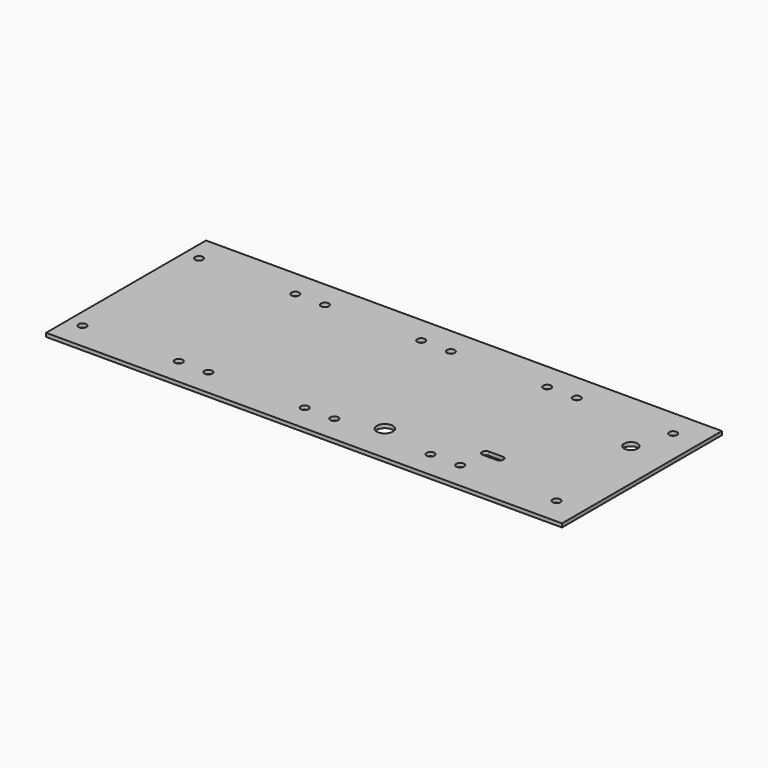
from build123d import *

# Parameters (mm, degrees)
SKETCH_W   = 209.14
SKETCH_H   = 81.05
SKETCH_R   = 1.6
SKETCH_R_2 = 2.75
SKETCH_R_3 = 3.25
PAD_DEPTH  = 1.5


with BuildPart() as part:
    # Sketch → Pad (new body)
    with BuildSketch(Plane.XY):
        with Locations((104.57, 40.525)):
            Rectangle(SKETCH_W, SKETCH_H)
        with Locations((5.94, 70.05)):
            Circle(SKETCH_R, mode=Mode.SUBTRACT)
        with Locations((44.99, 70.05)):
            Circle(SKETCH_R, mode=Mode.SUBTRACT)
        with Locations((56.99, 70.05)):
            Circle(SKETCH_R, mode=Mode.SUBTRACT)
        with Locations((96.04, 70.05)):
            Circle(SKETCH_R, mode=Mode.SUBTRACT)
        with Locations((108.04, 70.05)):
            Circle(SKETCH_R, mode=Mode.SUBTRACT)
        with Locations((147.09, 70.05)):
            Circle(SKETCH_R, mode=Mode.SUBTRACT)
        with Locations((159.09, 70.05)):
            Circle(SKETCH_R, mode=Mode.SUBTRACT)
        with Locations((198.14, 70.05)):
            Circle(SKETCH_R, mode=Mode.SUBTRACT)
        with Locations((198.14, 11)):
            Circle(SKETCH_R, mode=Mode.SUBTRACT)
        with Locations((159.09, 11)):
            Circle(SKETCH_R, mode=Mode.SUBTRACT)
        with Locations((147.09, 11)):
            Circle(SKETCH_R, mode=Mode.SUBTRACT)
        with Locations((108.04, 11)):
            Circle(SKETCH_R, mode=Mode.SUBTRACT)
        with Locations((96.04, 11)):
            Circle(SKETCH_R, mode=Mode.SUBTRACT)
        with Locations((56.99, 11)):
            Circle(SKETCH_R, mode=Mode.SUBTRACT)
        with Locations((44.99, 11)):
            Circle(SKETCH_R, mode=Mode.SUBTRACT)
        with Locations((5.94, 11)):
            Circle(SKETCH_R, mode=Mode.SUBTRACT)
        with Locations((193.09, 55)):
            Circle(SKETCH_R_2, mode=Mode.SUBTRACT)
        with Locations((124.811676, 15.624069)):
            Circle(SKETCH_R_3, mode=Mode.SUBTRACT)
        with BuildLine():
            Line((160.09, 21), (166.09, 21))
            ThreePointArc((166.09, 21), (166.973883, 21.366117), (167.34, 22.25))
            Line((167.34, 22.75), (167.34, 22.25))
            ThreePointArc((167.34, 22.75), (166.973883, 23.633883), (166.09, 24))
            Line((160.09, 24), (166.09, 24))
            ThreePointArc((160.09, 24), (159.206117, 23.633883), (158.84, 22.75))
            Line((158.84, 22.75), (158.84, 22.250002))
            ThreePointArc((158.84, 22.250002), (159.206116, 21.366117), (160.09, 21))
        make_face(mode=Mode.SUBTRACT)
    extrude(amount=PAD_DEPTH)


solid = part.part
